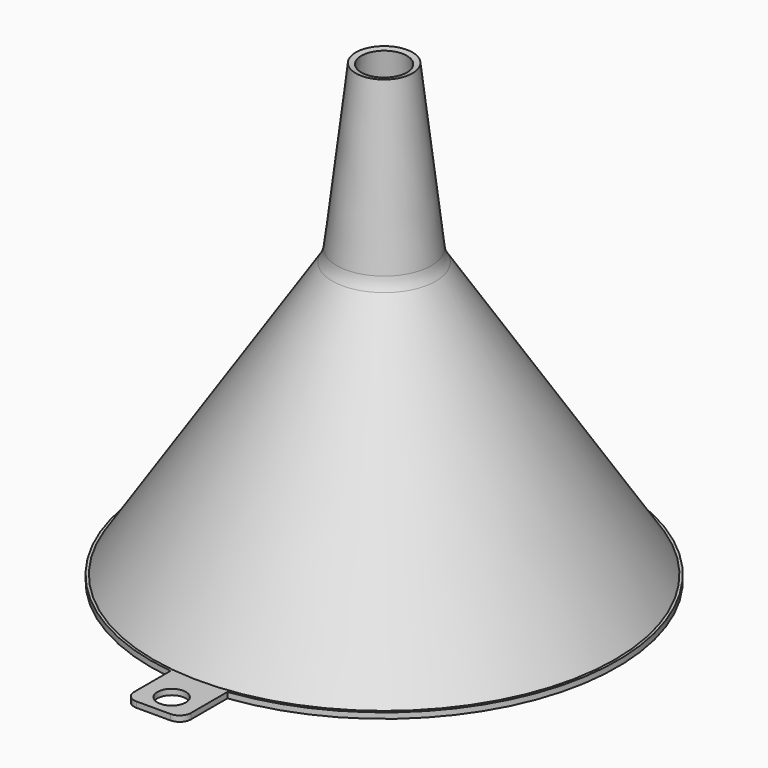
from build123d import *

# Parameters (mm, degrees)
F2_R        = 2.5
F1_FACE_R   = 41
F1_FACE_R_2 = 40
F3_DEPTH    = 1


with BuildPart() as f1:
    # F0 (on Front) → F1 (revolve)
    with BuildSketch(Plane.XZ):
        with BuildLine():
            Line((8.1383627463, 49.0179034672), (40, 0))
            Line((40, 0), (41, 0))
            Line((41, 0), (41, 0.296440068))
            Line((41, 0.296440068), (9.1044789119, 49.3664725112))
            ThreePointArc((9.1044789119, 49.3664725112), (8.5934514292, 50.39451086), (8.330381298, 51.5120107664))
            Line((8.330381298, 51.5120107664), (4.983738698, 80.1975187658))
            Line((4.983738698, 80.1975187658), (4, 80))
            Line((4, 80), (7.3642651324, 51.1634417224))
            ThreePointArc((7.3642651324, 51.1634417224), (7.6273352637, 50.045941816), (8.1383627463, 49.0179034672))
        make_face()
    revolve(axis=Axis((0, 0, 25.617052801), (0, 0, -1)))

    # F2 (on Top) + F1_face (on face) → F3 (join)
    with BuildSketch(Plane.XY):
        with BuildLine():
            Line((5, -40.6939798988), (-5, -40.6939798988))
            Line((-5, -40.6939798988), (-5, -48.6939798988))
            ThreePointArc((-5, -48.6939798988), (-4.4142135624, -50.1081934611), (-3, -50.6939798988))
            Line((-3, -50.6939798988), (0, -50.6939798988))
            Line((0, -50.6939798988), (3, -50.6939798988))
            ThreePointArc((3, -50.6939798988), (4.4142135624, -50.1081934611), (5, -48.6939798988))
            Line((5, -48.6939798988), (5, -40.6939798988))
        make_face()
        with Locations((0, -46.6939798988)):
            Circle(F2_R, mode=Mode.SUBTRACT)
    with BuildSketch(Plane(origin=(0, 0, 0), x_dir=(1, 0, 0), z_dir=(0, 0, -1))):
        Circle(F1_FACE_R)
        Circle(F1_FACE_R_2, mode=Mode.SUBTRACT)
    extrude(amount=F3_DEPTH, dir=(0, 0, 1))


solid = f1.part
